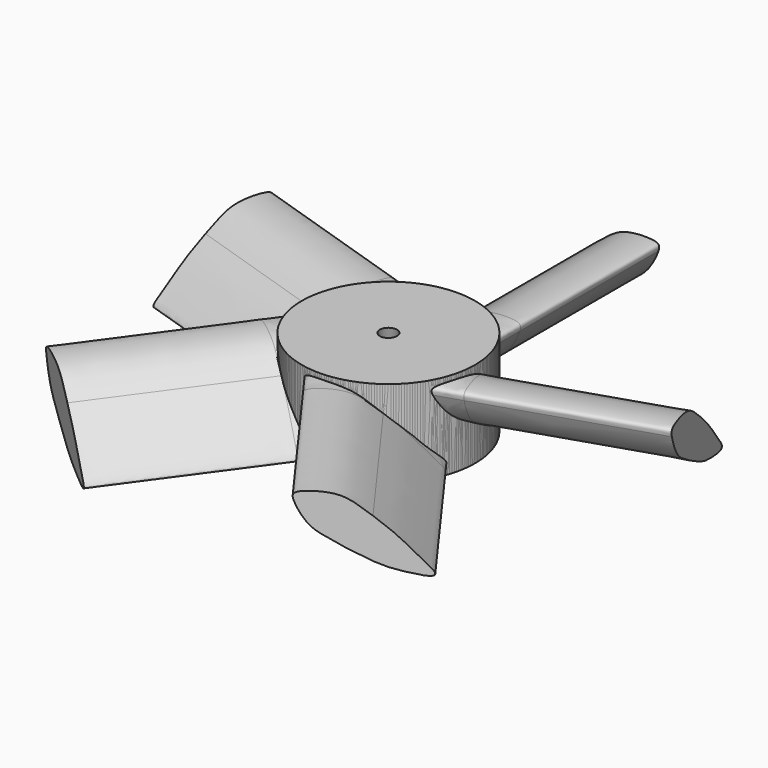
from build123d import *

# Parameters (mm, degrees)
F0_R     = 10
F0_R_2   = 1
F1_DEPTH = 10
F5_DEPTH = 5
F6_DEPTH = 20
F7_COUNT = 5


with BuildPart() as f1:
    # F0 (on Top) → F1 (new body)
    with BuildSketch(Plane.XY):
        Circle(F0_R)
        Circle(F0_R_2, mode=Mode.SUBTRACT)
    extrude(amount=F1_DEPTH)

    # F4 (on offset) → F5 (join)
    with BuildSketch(Plane.XZ.offset(-10)):
        with BuildLine():
            add(Edge.make_bspline(
                [(7.1697304957, 8.4580807015), (6.9737243101, 7.8438399478), (5.9936396194, 5.9074575961), (3.9923470118, 4.6146808368), (-0.0854716464, 2.2247779212), (-2.5724826181, 1.4394469221), (-6.7389650697, 0.5914594129), (-3.8486745532, 3.2064267463), (-2.6676895788, 4.7811518944), (0.5916152066, 7.5459411187), (2.7572060267, 9.2042724774), (5.3651257275, 9.4922509136), (7.3276876963, 9.3389643161), (7.2708896466, 8.7750914783), (7.1697304957, 8.4580807015)],
                knots=[0, 0, 0, 0, 0.0835362441, 0.1664295639, 0.2768921233, 0.3698721852, 0.4534416684, 0.5326689447, 0.6137166013, 0.7191478241, 0.8058540602, 0.8903634232, 0.9568867916, 1, 1, 1, 1], degree=3))
        make_face()
    extrude(amount=F5_DEPTH)

    # F6 (add): a face of the model
    f6_faces = [f1.faces().sort_by_distance(p)[0] for p in [
        (3.1576880021, 10, 6.5103007174),
    ]]
    extrude(f6_faces, amount=F6_DEPTH)


with BuildPart() as f7_1:
    # F7: instance of F1
    add(f1.part.rotate(Axis((0, 0, 6.7094415426), (0, 0, -1)), 1 * 360 / F7_COUNT))


with BuildPart() as f7_2:
    # F7: instance of F1
    add(f1.part.rotate(Axis((0, 0, 6.7094415426), (0, 0, -1)), 2 * 360 / F7_COUNT))


with BuildPart() as f7_3:
    # F7: instance of F1
    add(f1.part.rotate(Axis((0, 0, 6.7094415426), (0, 0, -1)), 3 * 360 / F7_COUNT))


with BuildPart() as f7_4:
    # F7: instance of F1
    add(f1.part.rotate(Axis((0, 0, 6.7094415426), (0, 0, -1)), 4 * 360 / F7_COUNT))


solid = Compound([f1.part, f7_1.part, f7_2.part, f7_3.part, f7_4.part])
